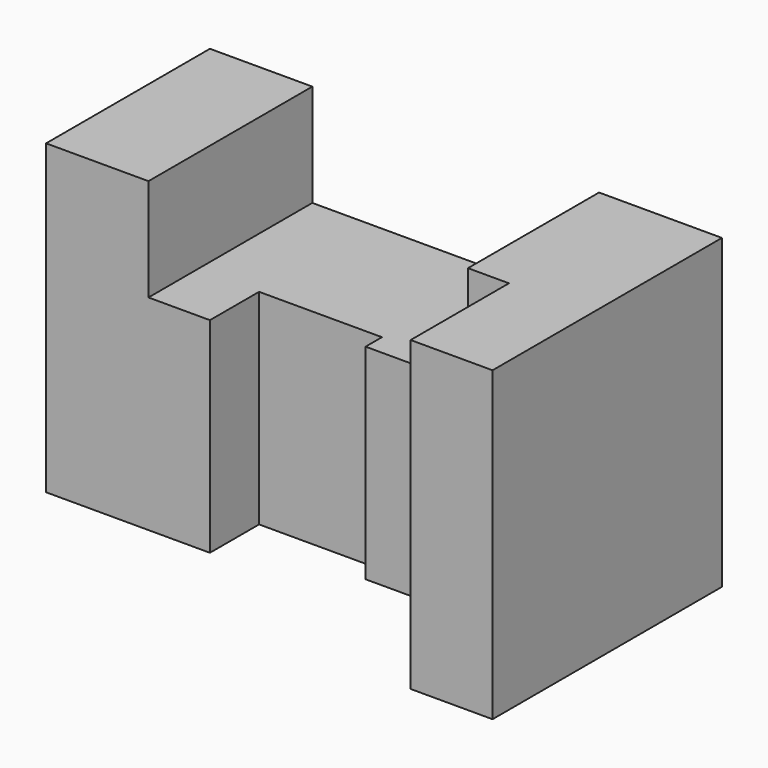
from build123d import *

# Parameters (mm, degrees)
F0_W     = 125
F0_H     = 75
F1_DEPTH = 70
F2_W     = 70
F2_H     = 25
F3_DEPTH = 70.001
F5_DEPTH = 75.001


with BuildPart() as f1:
    # F0 (on Front) → F1 (new body)
    with BuildSketch(Plane.XZ):
        with Locations((62.5, 37.5)):
            Rectangle(F0_W, F0_H)
    extrude(amount=-F1_DEPTH)

    # F2 (on face) → F3 (cut, through all)
    with BuildSketch(Plane.XZ):
        with Locations((60, 62.5)):
            Rectangle(F2_W, F2_H)
    extrude(amount=-F3_DEPTH, mode=Mode.SUBTRACT)

    # F4 (on Top) → F5 (cut, through all)
    with BuildSketch(Plane.XY):
        Polygon((105, 0), (105, 30), (70, 30), (70, 35), (40, 35), (40, 20), (0, 20), (0, -31.133723), (125, -31.133723), (125, 0), align=None)
    extrude(amount=F5_DEPTH, mode=Mode.SUBTRACT)


solid = f1.part
